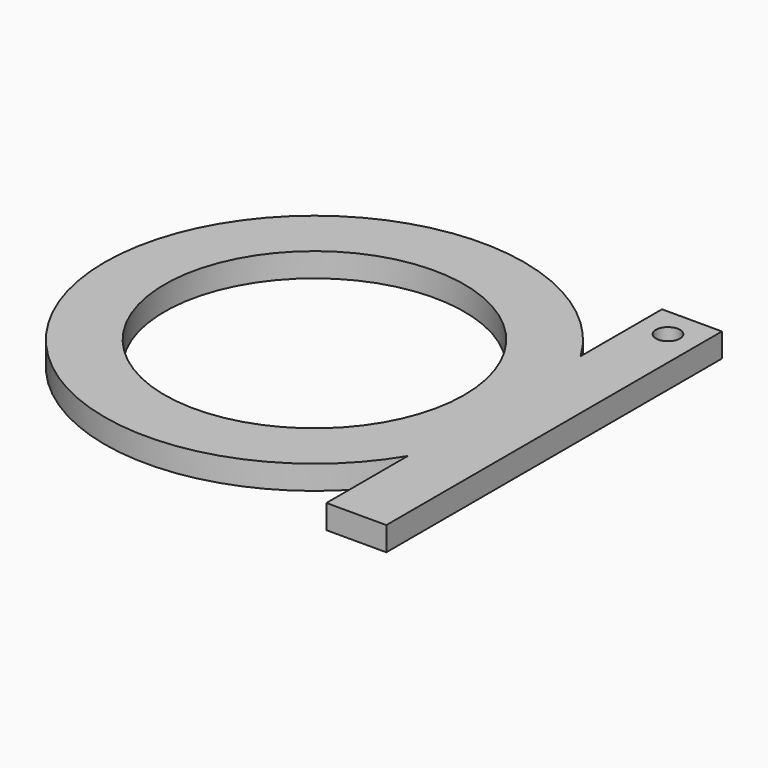
from build123d import *

# Parameters (mm, degrees)
F0_R     = 12.5
F1_DEPTH = 2
F2_R     = 1
F3_DEPTH = 2


with BuildPart() as f1:
    # F0 (on Top) → F1 (new body)
    with BuildSketch(Plane.XY):
        with BuildLine():
            Line((15, -9.0138781887), (15, 9.0138781887))
            ThreePointArc((15, 9.0138781887), (-17.5, 0), (15, -9.0138781887))
        make_face()
        Circle(F0_R, mode=Mode.SUBTRACT)
        with BuildLine():
            ThreePointArc((15, 9.0138781887), (16.863421954, 4.6770717335), (17.5, 0))
            ThreePointArc((17.5, 0), (16.863421954, -4.6770717335), (15, -9.0138781887))
            Line((15, -9.0138781887), (15, -17.5))
            Line((15, -17.5), (20, -17.5))
            Line((20, -17.5), (20, 17.5))
            Line((20, 17.5), (15, 17.5))
            Line((15, 17.5), (15, 9.0138781887))
        make_face()
        with BuildLine():
            ThreePointArc((15, -9.0138781887), (16.863421954, -4.6770717335), (17.5, 0))
            ThreePointArc((17.5, 0), (16.863421954, 4.6770717335), (15, 9.0138781887))
            Line((15, 9.0138781887), (15, -9.0138781887))
        make_face()
    extrude(amount=F1_DEPTH)

    # F2 (on face) → F3 (cut)
    with BuildSketch(Plane.XY.offset(2)):
        with Locations((17.5, 15)):
            Circle(F2_R)
    extrude(amount=-F3_DEPTH, mode=Mode.SUBTRACT)


solid = f1.part
